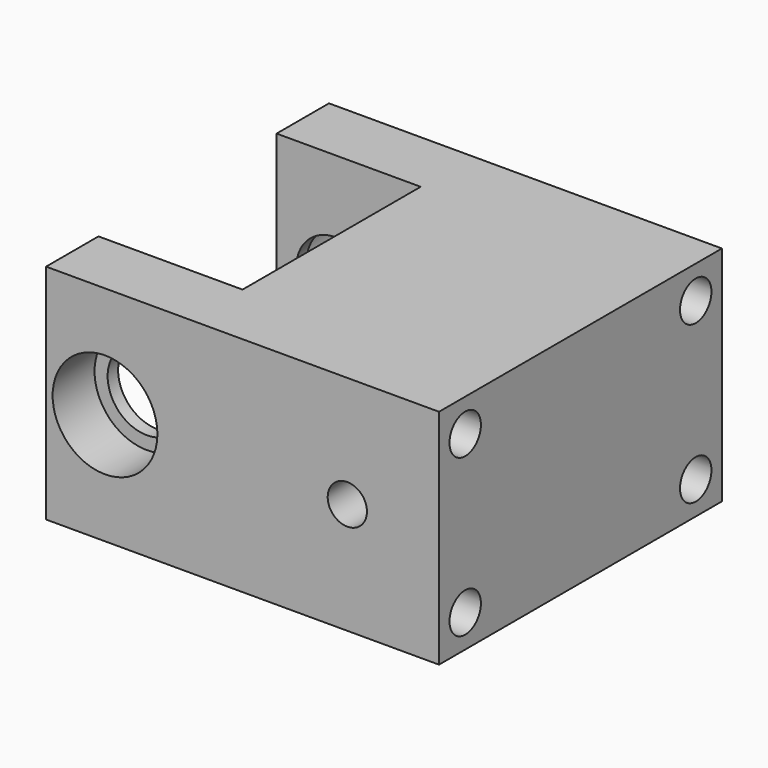
from build123d import *

# Parameters (mm, degrees)
F1_DEPTH  = 8.5
F2_R      = 3
F3_DEPTH  = 5
F2_R_2    = 4
F4_DEPTH  = 4
F5_R      = 3
F6_DEPTH  = 5
F5_R_2    = 4
F7_DEPTH  = 4
F9_D      = 3
F10_D     = 3
F10_DEPTH = 10
F10_TIP   = 0.9012909285


with BuildPart() as f1:
    # F0 (on Top) → F1 (new body, symmetric)
    with BuildSketch(Plane.XY):
        Polygon((19, 13.5), (-11, 13.5), (-11, 8.5), (0, 8.5), (0, -8.5), (-11, -8.5), (-11, -13.5), (19, -13.5), align=None)
    extrude(amount=F1_DEPTH, both=True)

    # F2 (on face) → F3 (cut, through all)
    with BuildSketch(Plane.XZ.offset(13.5)):
        with Locations((-6.5, 0)):
            Circle(F2_R)
    extrude(amount=-F3_DEPTH, mode=Mode.SUBTRACT)

    # F2 (on face) → F4 (cut)
    with BuildSketch(Plane.XZ.offset(13.5)):
        with Locations((-6.5, 0)):
            Circle(F2_R_2)
        with Locations((-6.5, 0)):
            Circle(F2_R, mode=Mode.SUBTRACT)
    extrude(amount=-F4_DEPTH, mode=Mode.SUBTRACT)

    # F5 (on face) → F6 (cut, through all)
    with BuildSketch(Plane(origin=(0, 13.5, 0), x_dir=(-1, 0, 0), z_dir=(0, 1, 0))):
        with Locations((6.5, 0)):
            Circle(F5_R)
    extrude(amount=-F6_DEPTH, mode=Mode.SUBTRACT)

    # F5 (on face) → F7 (cut)
    with BuildSketch(Plane(origin=(0, 13.5, 0), x_dir=(-1, 0, 0), z_dir=(0, 1, 0))):
        with Locations((6.5, 0)):
            Circle(F5_R_2)
        with Locations((6.5, 0)):
            Circle(F5_R, mode=Mode.SUBTRACT)
    extrude(amount=-F7_DEPTH, mode=Mode.SUBTRACT)

    # F9 (through all)
    with Locations(Plane.YZ.offset(19)):
        with Locations((-11, 6), (-11, -6), (11, -6), (11, 6)):
            Hole(F9_D / 2)

    # F10
    with Locations(Plane.XZ.offset(13.5)):
        with Locations((12, 0)):
            Hole(F10_D / 2, depth=F10_DEPTH)
            with Locations((0, 0, -(F10_DEPTH + F10_TIP / 2))):  # 118° drill point
                Cone(0, F10_D / 2, F10_TIP, mode=Mode.SUBTRACT)


solid = f1.part
